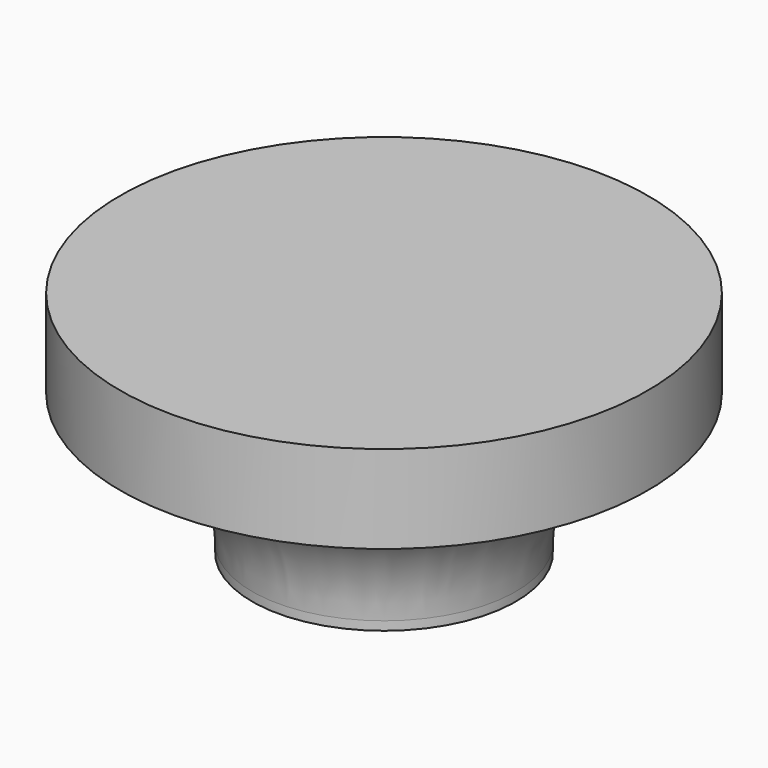
from build123d import *

# Parameters (mm, degrees)
SKETCH129_R             = 15
PAD067_DEPTH            = 5
SKETCH130_R             = 7.5
SKETCH130_R_2           = 3
PAD068_DEPTH            = 8
FILLET001_R             = 7.49999
BODY018_PLACEMENT_ANGLE = 90


with BuildPart() as part:
    # Sketch129 → Pad067 (new body)
    with BuildSketch(Plane.YZ):
        Circle(SKETCH129_R)
    extrude(amount=PAD067_DEPTH)

    # Sketch130 (on Face3 of Pad067) → Pad068 (join)
    with BuildSketch(Plane.YZ.offset(5)):
        Circle(SKETCH130_R)
        Circle(SKETCH130_R_2, mode=Mode.SUBTRACT)
    extrude(amount=PAD068_DEPTH)

    # Fillet001
    fillet001_edges = [part.edges().sort_by_distance(p)[0] for p in [
        (5, -7.5, 0),
    ]]
    fillet(fillet001_edges, radius=FILLET001_R)


with BuildPart() as part_1:
    # Body018 placement: moved
    add(part.part.moved(Location((-100, -121.8, -33.01))).rotate(Axis((-100, -121.8, -33.01), (0, 1, 0)), BODY018_PLACEMENT_ANGLE))


solid = part_1.part
